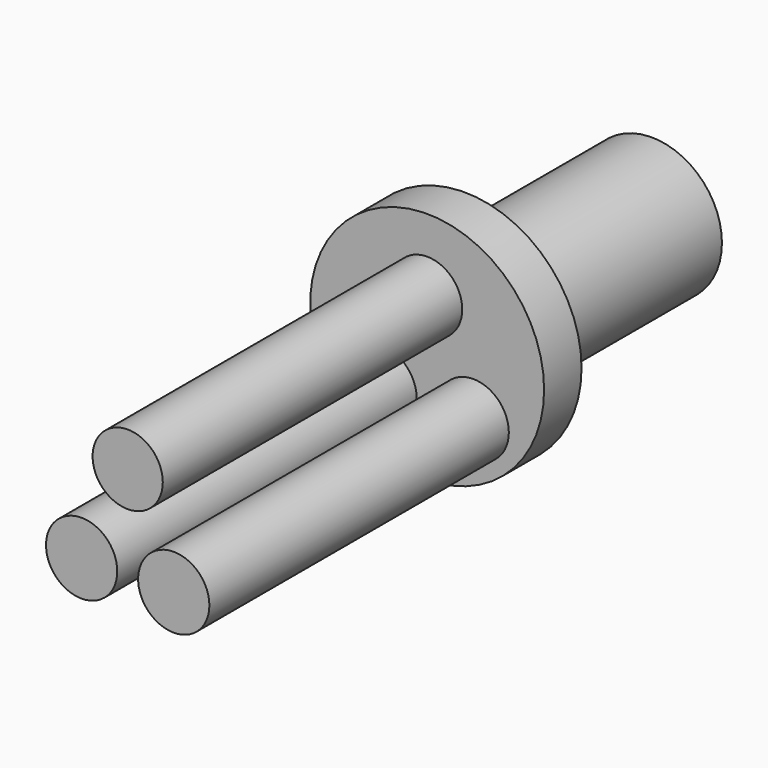
from build123d import *

# Parameters (mm, degrees)
F0_R     = 1.5
F1_DEPTH = 5
F2_R     = 2.5
F3_DEPTH = 1
F4_R     = 0.761295
F4_R_2   = 0.75
F5_DEPTH = 8


with BuildPart() as f1:
    # F0 (on Front) → F1 (new body)
    with BuildSketch(Plane.XZ):
        Circle(F0_R)
    extrude(amount=F1_DEPTH)

    # F2 (on face) → F3 (join)
    with BuildSketch(Plane.XZ.offset(5)):
        Circle(F2_R)
    extrude(amount=F3_DEPTH)

    # F4 (on face) → F5 (join)
    with BuildSketch(Plane.XZ.offset(6)):
        with Locations((0.984464, -1.048415)):
            Circle(F4_R)
        with Locations((-0.984464, -1.048415)):
            Circle(F4_R)
        with Locations((0, 0.944208)):
            Circle(F4_R_2)
    extrude(amount=F5_DEPTH)


solid = f1.part
